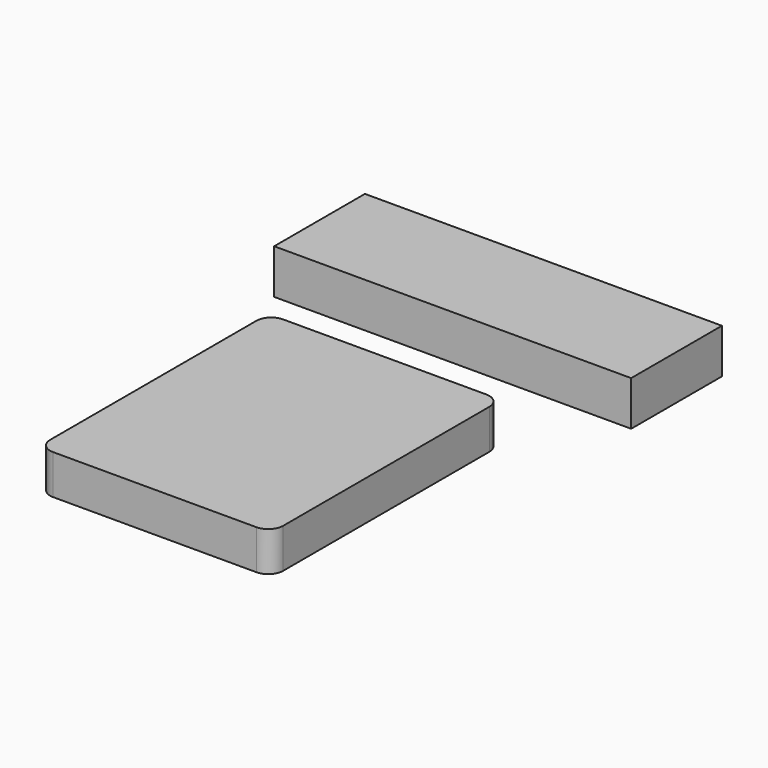
from build123d import *

# Parameters (mm, degrees)
F0_W     = 47
F0_H     = 58
F2_DEPTH = 8
F1_W     = 72.037814
F1_H     = 22.89
F3_DEPTH = 9
F4_R     = 3


with BuildPart() as f2:
    # F0 (on Top) → F2 (new body)
    with BuildSketch(Plane.XY):
        with Locations((0, 29)):
            Rectangle(F0_W, F0_H)
    extrude(amount=F2_DEPTH)

    # F4
    f4_edges = [f2.edges().sort_by_distance(p)[0] for p in [
        (-23.5, 58, 4),
        (23.5, 58, 4),
        (23.5, 0, 4),
        (-23.5, 0, 4),
    ]]
    fillet(f4_edges, radius=F4_R)


with BuildPart() as f3:
    # F1 (on Top) → F3 (new body)
    with BuildSketch(Plane.XY):
        with Locations((0.018907, 86.555)):
            Rectangle(F1_W, F1_H)
    extrude(amount=F3_DEPTH)


solid = Compound([f2.part, f3.part])
